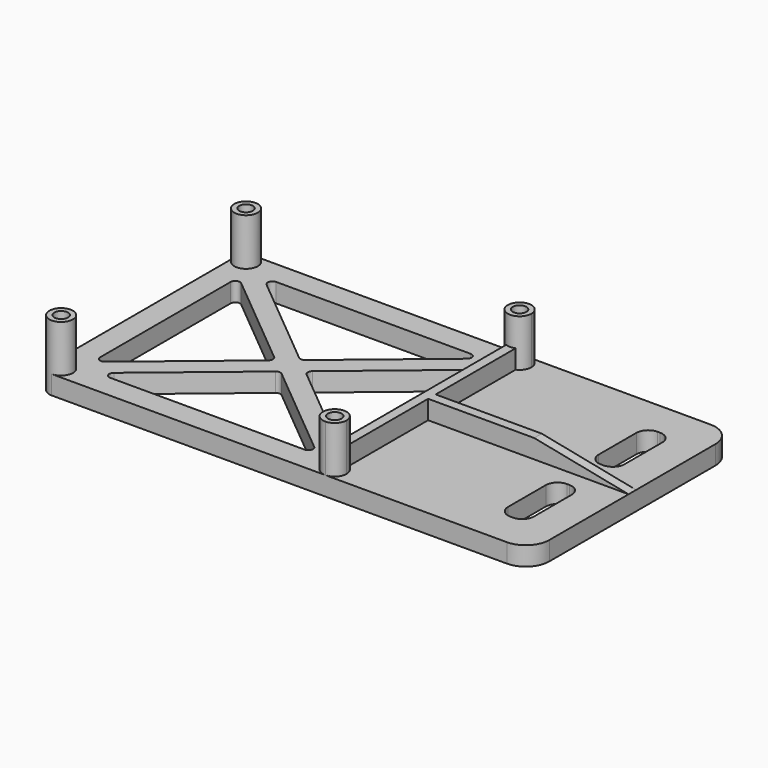
from build123d import *

# Parameters (mm, degrees)
F1_W     = 5.5
F1_H     = 15
F1_R     = 1.45
F2_DEPTH = 4
F3_DEPTH = 14
F4_R     = 2.5
F5_R     = 5
F6_W     = 42.5
F6_H     = 2
F7_DEPTH = 4
F8_SIZE2 = 4
F8_SIZE  = 20
F9_R     = 1


with BuildPart() as f2:
    # F1 (on Top) → F2 (new body)
    with BuildSketch(Plane.XY):
        with BuildLine():
            ThreePointArc((-44, 27), (-42.232233047, 26.267766953), (-41.5, 24.5))
            ThreePointArc((-41.5, 24.5), (-44, 22), (-46.5, 24.5))
            Line((-46.5, 24.5), (-46.5, -24.5))
            ThreePointArc((-46.5, -24.5), (-44, -22), (-41.5, -24.5))
            ThreePointArc((-41.5, -24.5), (-42.232233047, -26.267766953), (-44, -27))
            Line((-44, -27), (14, -27))
            Line((14, -27), (16.5, -27))
            Line((16.5, -27), (57.5, -27))
            Line((57.5, -27), (57.5, 27))
            Line((57.5, 27), (16.5, 27))
            Line((16.5, 27), (14, 27))
            Line((14, 27), (-44, 27))
        make_face()
        with BuildLine():
            ThreePointArc((16.5, -24.5), (15.767766953, -26.267766953), (14, -27))
            ThreePointArc((14, -27), (12.232233047, -22.732233047), (16.5, -24.5))
        make_face(mode=Mode.SUBTRACT)
        with Locations((47.5, -12)):
            Rectangle(F1_W, F1_H, mode=Mode.SUBTRACT)
        Polygon((11.5, -19.400605268), (11.5, -22), (8.368910891, -22), (-38.368910891, -22), (-41.5, -22), (-41.5, -19.400605268), (-41.5, 19.400605268), (-41.5, 22), (-38.368910891, 22), (8.368910891, 22), (11.5, 22), (11.5, 19.400605268), align=None, mode=Mode.SUBTRACT)
        with Locations((47.5, 12)):
            Rectangle(F1_W, F1_H, mode=Mode.SUBTRACT)
        with BuildLine():
            ThreePointArc((16.5, 24.5), (12.232233047, 22.732233047), (14, 27))
            ThreePointArc((14, 27), (15.767766953, 26.267766953), (16.5, 24.5))
        make_face(mode=Mode.SUBTRACT)
        Polygon((-41.5, 19.400605268), (-18.131089109, 0), (-15, 2.599394732), (-38.368910891, 22), (-41.5, 22), align=None)
        Polygon((-11.868910891, 0), (11.5, 19.400605268), (11.5, 22), (8.368910891, 22), (-15, 2.599394732), align=None)
        Polygon((8.368910891, -22), (11.5, -22), (11.5, -19.400605268), (-11.868910891, 0), (-15, -2.599394732), align=None)
        Polygon((-41.5, -22), (-38.368910891, -22), (-15, -2.599394732), (-18.131089109, 0), (-41.5, -19.400605268), align=None)
        with BuildLine():
            ThreePointArc((16.5, 24.5), (15.767766953, 26.267766953), (14, 27))
            ThreePointArc((14, 27), (12.232233047, 22.732233047), (16.5, 24.5))
        make_face()
        with Locations((14, 24.5)):
            Circle(F1_R, mode=Mode.SUBTRACT)
        with BuildLine():
            ThreePointArc((16.5, -24.5), (12.232233047, -22.732233047), (14, -27))
            ThreePointArc((14, -27), (15.767766953, -26.267766953), (16.5, -24.5))
        make_face()
        with Locations((14, -24.5)):
            Circle(F1_R, mode=Mode.SUBTRACT)
        with BuildLine():
            ThreePointArc((-46.5, 24.5), (-44, 22), (-41.5, 24.5))
            ThreePointArc((-41.5, 24.5), (-42.232233047, 26.267766953), (-44, 27))
            ThreePointArc((-44, 27), (-45.767766953, 26.267766953), (-46.5, 24.5))
        make_face()
        with Locations((-44, 24.5)):
            Circle(F1_R, mode=Mode.SUBTRACT)
        with BuildLine():
            ThreePointArc((-41.5, -24.5), (-44, -22), (-46.5, -24.5))
            ThreePointArc((-46.5, -24.5), (-45.767766953, -26.267766953), (-44, -27))
            ThreePointArc((-44, -27), (-42.232233047, -26.267766953), (-41.5, -24.5))
        make_face()
        with Locations((-44, -24.5)):
            Circle(F1_R, mode=Mode.SUBTRACT)
        Polygon((-18.131089109, 0), (-15, -2.599394732), (-11.868910891, 0), (-15, 2.599394732), align=None)
    extrude(amount=F2_DEPTH)

    # F1 (on Top) → F3 (join)
    with BuildSketch(Plane.XY):
        with BuildLine():
            ThreePointArc((-46.5, 24.5), (-44, 22), (-41.5, 24.5))
            ThreePointArc((-41.5, 24.5), (-42.232233047, 26.267766953), (-44, 27))
            ThreePointArc((-44, 27), (-45.767766953, 26.267766953), (-46.5, 24.5))
        make_face()
        with Locations((-44, 24.5)):
            Circle(F1_R, mode=Mode.SUBTRACT)
        with BuildLine():
            ThreePointArc((16.5, 24.5), (15.767766953, 26.267766953), (14, 27))
            ThreePointArc((14, 27), (12.232233047, 22.732233047), (16.5, 24.5))
        make_face()
        with Locations((14, 24.5)):
            Circle(F1_R, mode=Mode.SUBTRACT)
        with BuildLine():
            ThreePointArc((16.5, -24.5), (12.232233047, -22.732233047), (14, -27))
            ThreePointArc((14, -27), (15.767766953, -26.267766953), (16.5, -24.5))
        make_face()
        with Locations((14, -24.5)):
            Circle(F1_R, mode=Mode.SUBTRACT)
        with BuildLine():
            ThreePointArc((-41.5, -24.5), (-44, -22), (-46.5, -24.5))
            ThreePointArc((-46.5, -24.5), (-45.767766953, -26.267766953), (-44, -27))
            ThreePointArc((-44, -27), (-42.232233047, -26.267766953), (-41.5, -24.5))
        make_face()
        with Locations((-44, -24.5)):
            Circle(F1_R, mode=Mode.SUBTRACT)
    extrude(amount=F3_DEPTH)

    # F4
    f4_edges = [f2.edges().sort_by_distance(p)[0] for p in [
        (44.75, 19.5, 2),
        (50.25, 19.5, 2),
        (50.25, 4.5, 2),
        (44.75, 4.5, 2),
        (44.75, -19.5, 2),
        (50.25, -19.5, 2),
        (50.25, -4.5, 2),
        (44.75, -4.5, 2),
    ]]
    fillet(f4_edges, radius=F4_R)

    # F5
    f5_edges = [f2.edges().sort_by_distance(p)[0] for p in [
        (57.5, -27, 2),
        (57.5, 27, 2),
    ]]
    fillet(f5_edges, radius=F5_R)

    # F6 (on face) → F7 (join)
    with BuildSketch(Plane.XY.offset(4)):
        with BuildLine():
            ThreePointArc((15, 22.2087121525), (14, 22), (13, 22.2087121525))
            Line((13, 22.2087121525), (13, -22.2087121525))
            ThreePointArc((13, -22.2087121525), (14, -22), (15, -22.2087121525))
            Line((15, -22.2087121525), (15, -1))
            Line((15, -1), (15, 1))
            Line((15, 1), (15, 22.2087121525))
        make_face()
        with Locations((36.25, 0)):
            Rectangle(F6_W, F6_H)
    extrude(amount=F7_DEPTH)

    # F8
    f8_edges = [f2.edges().sort_by_distance(p)[0] for p in [
        (57.5, 0, 8),
    ]]
    f8_side = f2.faces().sort_by_distance((24.914828, 0, 8))[0]
    chamfer(f8_edges, length=F8_SIZE, length2=F8_SIZE2, reference=f8_side)

    # F9
    f9_edges = [f2.edges().sort_by_distance(p)[0] for p in [
        (-41.5, 19.400605, 2),
        (-38.368911, 22, 2),
        (8.368911, 22, 2),
        (11.5, 19.400605, 2),
        (11.5, -19.400605, 2),
        (8.368911, -22, 2),
        (-38.368911, -22, 2),
        (-41.5, -19.400605, 2),
        (-18.131089, 0, 2),
        (-15, -2.599395, 2),
        (-11.868911, 0, 2),
        (-15, 2.599395, 2),
    ]]
    fillet(f9_edges, radius=F9_R)


solid = f2.part
